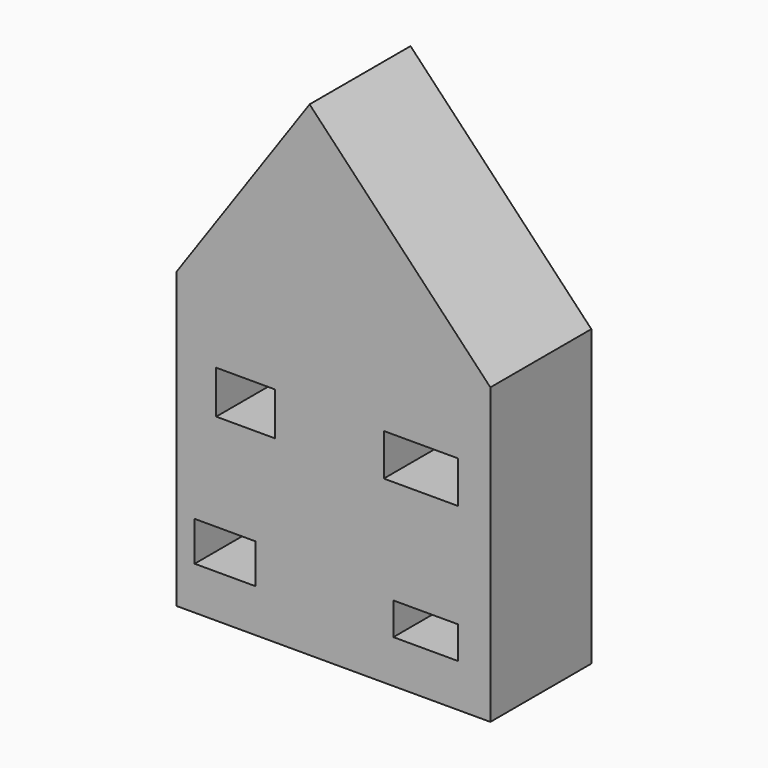
from build123d import *

# Parameters (mm, degrees)
F0_W     = 12.290693
F0_H     = 7.952802
F0_W_2   = 11.808704
F0_H_2   = 8.675784
F0_W_3   = 13.013679
F0_H_3   = 6.506838
F0_W_4   = 14.941631
F0_H_4   = 8.43479
F0_W_5   = 10.603736
F0_H_5   = 13.495661
F1_DEPTH = 25.4
F2_DEPTH = 25.4


with BuildPart() as f1:
    # F0 (on Front) → F1 (new body)
    with BuildSketch(Plane.XZ):
        Polygon((0, 56.874581), (-26.750332, 18.556535), (36.390092, 18.556535), align=None)
        Polygon((36.390092, 18.556535), (-26.750332, 18.556535), (-26.750332, -40.72798), (-2.891928, -40.72798), (-2.891928, -27.232319), (7.711808, -27.232319), (7.711808, -40.72798), (36.390092, -40.72798), align=None)
        with Locations((-16.990075, -28.075799)):
            Rectangle(F0_W, F0_H, mode=Mode.SUBTRACT)
        with Locations((-12.893178, -0.240994)):
            Rectangle(F0_W_2, F0_H_2, mode=Mode.SUBTRACT)
        with Locations((23.376416, -28.798781)):
            Rectangle(F0_W_3, F0_H_3, mode=Mode.SUBTRACT)
        with Locations((22.41244, -0.361491)):
            Rectangle(F0_W_4, F0_H_4, mode=Mode.SUBTRACT)
        with Locations((2.40994, -33.980149)):
            Rectangle(F0_W_5, F0_H_5)
    extrude(amount=F1_DEPTH)

    # F0 (on Front) → F2 (join)
    with BuildSketch(Plane.XZ):
        Polygon((0, 56.874581), (-26.750332, 18.556535), (36.390092, 18.556535), align=None)
        Polygon((36.390092, 18.556535), (-26.750332, 18.556535), (-26.750332, -40.72798), (-2.891928, -40.72798), (-2.891928, -27.232319), (7.711808, -27.232319), (7.711808, -40.72798), (36.390092, -40.72798), align=None)
        with Locations((-16.990075, -28.075799)):
            Rectangle(F0_W, F0_H, mode=Mode.SUBTRACT)
        with Locations((-12.893178, -0.240994)):
            Rectangle(F0_W_2, F0_H_2, mode=Mode.SUBTRACT)
        with Locations((23.376416, -28.798781)):
            Rectangle(F0_W_3, F0_H_3, mode=Mode.SUBTRACT)
        with Locations((22.41244, -0.361491)):
            Rectangle(F0_W_4, F0_H_4, mode=Mode.SUBTRACT)
        with Locations((2.40994, -33.980149)):
            Rectangle(F0_W_5, F0_H_5)
    extrude(amount=F2_DEPTH)


solid = f1.part
